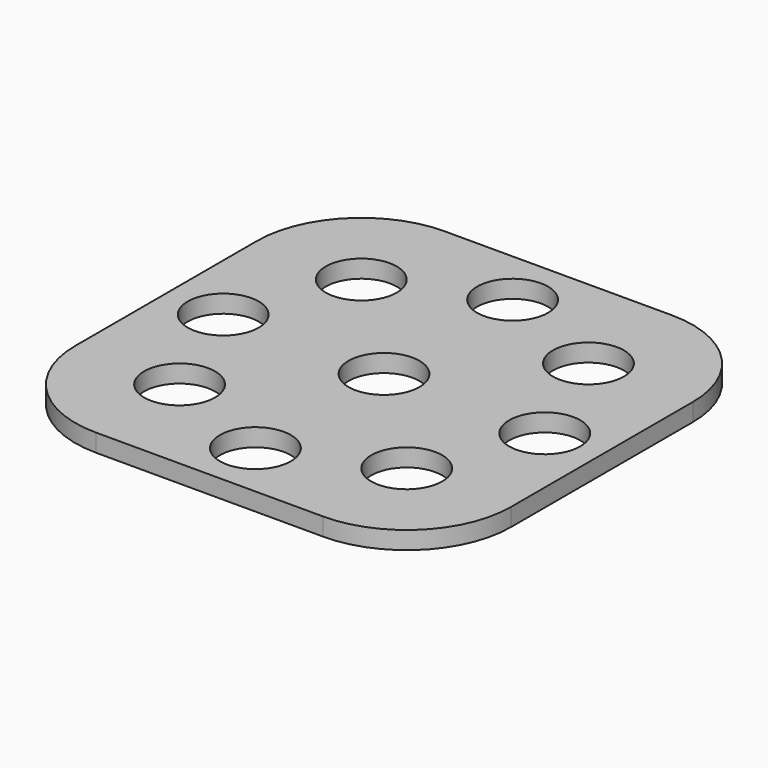
from build123d import *

# Parameters (mm, degrees)
F0_R     = 2.159
F1_DEPTH = 1.0795


with BuildPart() as f1:
    # F0 (on Top) → F1 (new body)
    with BuildSketch(Plane.XY):
        with BuildLine():
            ThreePointArc((13.2588, 6.9088), (11.398928, 11.398928), (6.9088, 13.2588))
            Line((6.9088, 13.2588), (-6.9088, 13.2588))
            ThreePointArc((-6.9088, 13.2588), (-11.398928, 11.398928), (-13.2588, 6.9088))
            Line((-13.2588, 6.9088), (-13.2588, -6.9088))
            ThreePointArc((-13.2588, -6.9088), (-11.398928, -11.398928), (-6.9088, -13.2588))
            Line((-6.9088, -13.2588), (6.9088, -13.2588))
            ThreePointArc((6.9088, -13.2588), (11.398928, -11.398928), (13.2588, -6.9088))
            Line((13.2588, -6.9088), (13.2588, 6.9088))
        make_face()
        with Locations((-6.9088, -6.9088)):
            Circle(F0_R, mode=Mode.SUBTRACT)
        with Locations((0, -9.779)):
            Circle(F0_R, mode=Mode.SUBTRACT)
        with Locations((-9.779, 0)):
            Circle(F0_R, mode=Mode.SUBTRACT)
        Circle(F0_R, mode=Mode.SUBTRACT)
        with Locations((6.9088, -6.9088)):
            Circle(F0_R, mode=Mode.SUBTRACT)
        with Locations((9.779, 0)):
            Circle(F0_R, mode=Mode.SUBTRACT)
        with Locations((-6.9088, 6.9088)):
            Circle(F0_R, mode=Mode.SUBTRACT)
        with Locations((0, 9.779)):
            Circle(F0_R, mode=Mode.SUBTRACT)
        with Locations((6.9088, 6.9088)):
            Circle(F0_R, mode=Mode.SUBTRACT)
    extrude(amount=F1_DEPTH)


solid = f1.part
